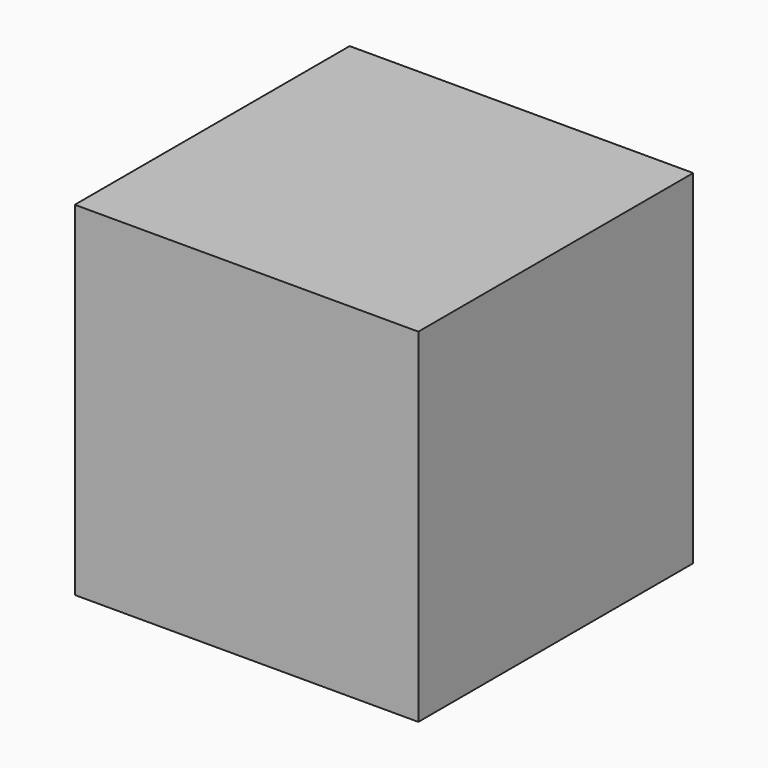
from build123d import *

# Parameters (mm, degrees)
SKETCH_W  = 25
SKETCH_H  = 25
PAD_DEPTH = 25


with BuildPart() as part:
    # Sketch → Pad (new body)
    with BuildSketch(Plane.XZ):
        Rectangle(SKETCH_W, SKETCH_H)
    extrude(amount=PAD_DEPTH)


solid = part.part
